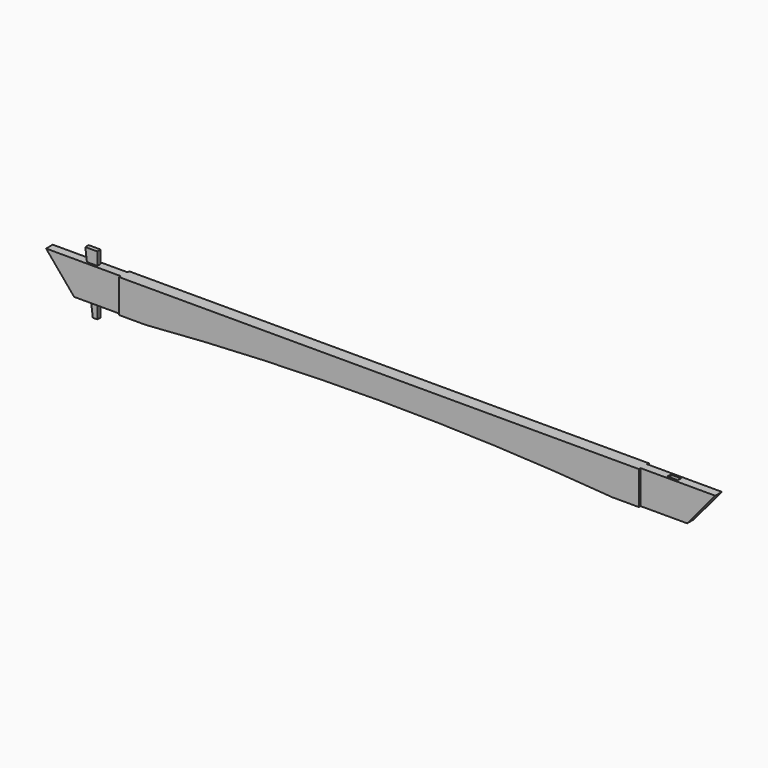
from build123d import *

# Parameters (mm, degrees)
F0_W     = 120
F0_H     = 160
F1_DEPTH = 20
F2_DEPTH = 10
F4_DEPTH = 30


with BuildPart() as f1:
    # F0 (on Front) → F1 (new body, symmetric)
    with BuildSketch(Plane.XZ):
        Polygon((-1392.802696, -160), (-1412.802696, 0), (-1600, 0), (-1465.744059, -160), align=None)
        with Locations((-1302.802696, -80)):
            Rectangle(F0_W, F0_H)
        Polygon((-1362.802696, -160), (-1362.802696, 0), (-1412.802696, 0), (-1392.802696, -160), align=None)
    extrude(amount=F1_DEPTH, both=True)


with BuildPart() as f2:
    # F0 (on Front) → F2 (new body, symmetric)
    with BuildSketch(Plane.XZ):
        Polygon((-1362.802696, -160), (-1362.802696, 0), (-1412.802696, 0), (-1392.802696, -160), align=None)
        Polygon((-1412.802696, 0), (-1362.802696, 0), (-1362.802696, 60.649661), (-1420.383904, 60.649661), align=None)
        Polygon((-1362.802696, -225.629424), (-1362.802696, -160), (-1392.802696, -160), (-1384.599018, -225.629424), align=None)
    extrude(amount=F2_DEPTH, both=True)


with BuildPart() as f1_1:
    add(f1.part)

    # F3: cut F2
    add(f2.part, mode=Mode.SUBTRACT)

    # F0 (on Front) → F4 (join, symmetric)
    with BuildSketch(Plane.XZ):
        with BuildLine():
            Line((0, -114.69923), (0, 0))
            Line((0, 0), (-1242.802696, 0))
            Line((-1242.802696, 0), (-1242.802696, -160))
            Line((-1242.802696, -160), (-1115.744059, -160))
            ThreePointArc((-1115.744059, -160), (-558.331659, -126.029086), (0, -114.69923))
        make_face()
    extrude(amount=F4_DEPTH, both=True)

    # F5: F1 across plane


with BuildPart() as f1_2:
    add(f1_1.part)
    add(f1_1.part.mirror(Plane.YZ))


solid = Compound([f2.part, f1_2.part])
